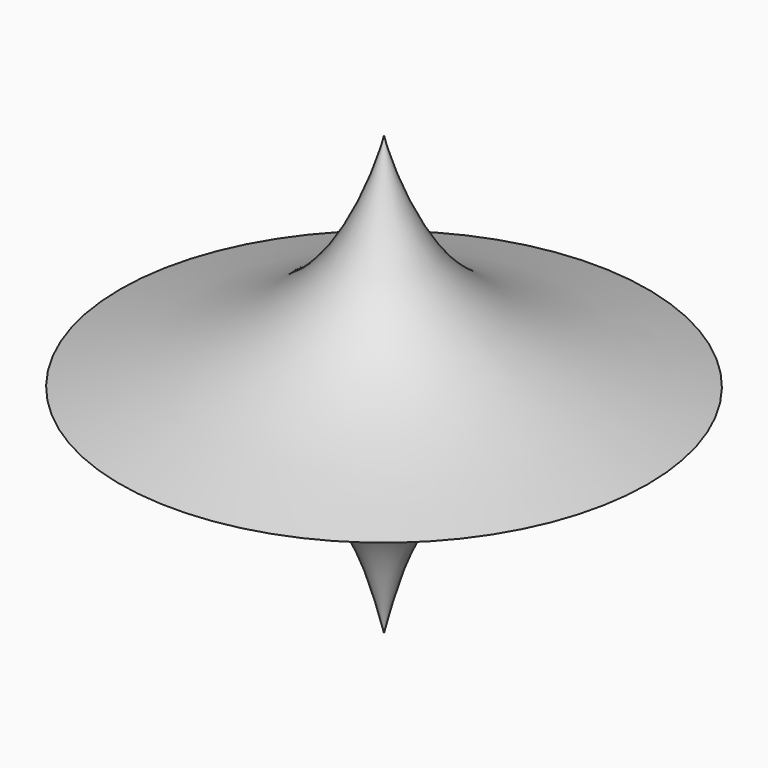
from build123d import *


with BuildPart() as f1:
    # F0 (on Front) → F1 (revolve)
    with BuildSketch(Plane.XZ):
        with BuildLine():
            add(Edge.make_bspline(
                [(0, 62.6162588596), (0.2651872733, 60.6477925444), (11.7135422722, 17.9697107745), (51.5304789211, 6.577118232), (74.5174065232, 0)],
                knots=[0.0354568006, 0.0354568006, 0.0354568006, 0.0354568006, 0.4431544323, 1, 1, 1, 1], degree=3))
            Line((0, 62.6162588596), (0, -61.263859272))
            add(Edge.make_bspline(
                [(74.5174065232, 0), (67.5729342509, -2.4075713348), (51.5991722108, -7.9454970531), (9.4630433439, -22.6339905672), (3.1051647158, -48.5880106131), (0, -61.263859272)],
                knots=[0, 0, 0, 0, 0.2823706177, 0.649512429, 1, 1, 1, 1], degree=3))
        make_face()
    revolve(axis=Axis((0, 0, -0.2704784274), (0, 0, -1)))


solid = f1.part
